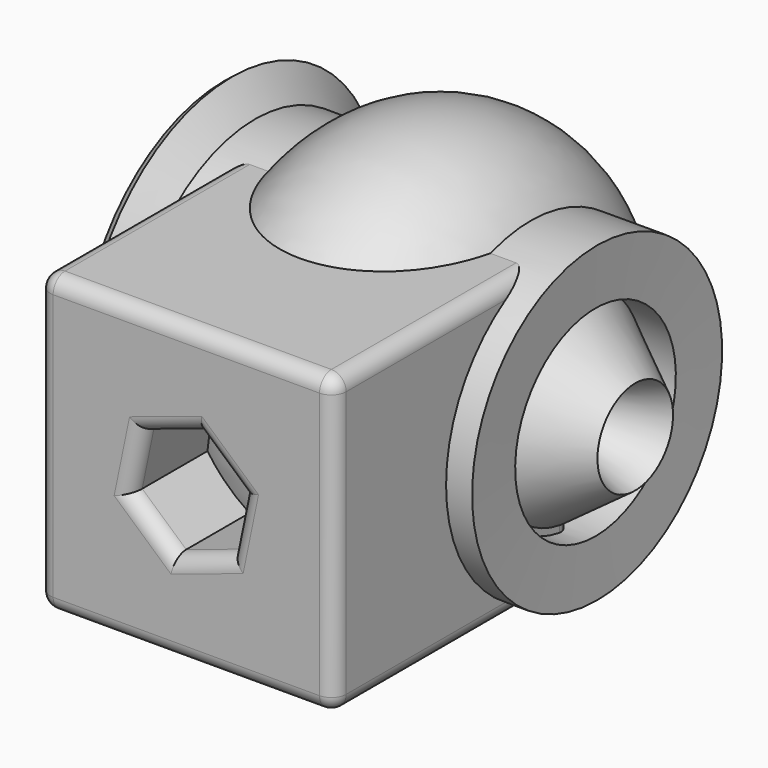
from build123d import *

# Parameters (mm, degrees)
F0_W     = 100
F0_H     = 100
F1_DEPTH = 100
F3_DEPTH = 100.001
F4_R     = 5


with BuildPart() as f1:
    # F0 (on Front) → F1 (new body)
    with BuildSketch(Plane.XZ):
        Rectangle(F0_W, F0_H)
    extrude(amount=F1_DEPTH)

    # F2 (on Front) → F3 (cut, through all)
    with BuildSketch(Plane.XZ):
        Polygon((4.0318284292, 19.5086046094), (-14.8790329695, 13.2459681481), (-18.9108613987, -6.2626364613), (-4.0318284292, -19.5086046094), (14.8790329695, -13.2459681481), (18.9108613987, 6.2626364613), align=None)
    extrude(amount=F3_DEPTH, mode=Mode.SUBTRACT)

    # F4
    f4_edges = [f1.edges().sort_by_distance(p)[0] for p in [
        (0, -100, 50),
        (50, -50, 50),
        (-50, -50, 50),
        (0, 0, 50),
        (50, -50, -50),
        (50, 0, 0),
        (50, -100, 0),
        (-50, -100, 0),
        (0, -100, -50),
        (-16.894947, -100, 3.491666),
        (-11.471345, -100, -12.885621),
        (5.423602, -100, -16.377286),
        (16.894947, -100, -3.491666),
        (11.471345, -100, 12.885621),
        (-5.423602, -100, 16.377286),
        (-50, 0, 0),
        (0, 0, -50),
        (-5.423602, 0, 16.377286),
        (-16.894947, 0, 3.491666),
        (-11.471345, 0, -12.885621),
        (5.423602, 0, -16.377286),
        (16.894947, 0, -3.491666),
        (11.471345, 0, 12.885621),
        (-50, -50, -50),
    ]]
    fillet(f4_edges, radius=F4_R)

    # F5 (on Front) → F6 (revolve)
    with BuildSketch(Plane.XZ):
        with BuildLine():
            Line((-40.8266149461, 49.8991943896), (38.2862910628, 50.0806495547))
            ThreePointArc((38.2862910628, 50.0806495547), (-1.3186722863, 71.1400189531), (-40.8266149461, 49.8991943896))
        make_face()
        Polygon((71.6733932495, 15.9677416086), (38.4677425027, 40.1008091867), (39.9193577468, 3.2661291771), align=None)
        Polygon((-45.4647839651, 33.0210824083), (-41.7338721454, 33.7500013411), (-46.2650011913, 39.503814608), (-48.9221120839, 37.4113392729), align=None)
        Polygon((-63.825226833, 56.3359248435), (-46.2650011913, 39.503814608), (-64.5967796445, 62.7822577953), (-67.2538905371, 60.6897824602), align=None)
        Polygon((-48.9221120839, 37.4113392729), (-46.2650011913, 39.503814608), (-63.825226833, 56.3359248435), (-53.0100514402, 42.602372118), align=None)
        Polygon((-51.4014332317, 35.4588733958), (-48.9221120839, 37.4113392729), (-53.0100514402, 42.602372118), (-55.489372588, 40.6499062409), align=None)
        Polygon((-53.0100514402, 42.602372118), (-63.825226833, 56.3359248435), (-66.3045479807, 54.3834589665), (-63.2231609385, 50.4705874803), (-61.8750043213, 51.5322610736), align=None)
        Polygon((-55.489372588, 40.6499062409), (-53.0100514402, 42.602372118), (-61.8750043213, 51.5322610736), (-63.2231609385, 50.4705874803), align=None)
        Polygon((-58.0232899418, 38.6544458411), (-55.489372588, 40.6499062409), (-63.2231609385, 50.4705874803), (-65.7570782923, 48.4751270805), align=None)
        Polygon((58.2459717989, -33.931452781), (-56.9758079946, -33.931452781), (-56.9758079946, -52.8024211526), (58.7903223932, -52.8024211526), align=None)
    revolve(axis=Axis((-3.9012096822, 0, 0), (1, 0, 0)))


solid = f1.part
